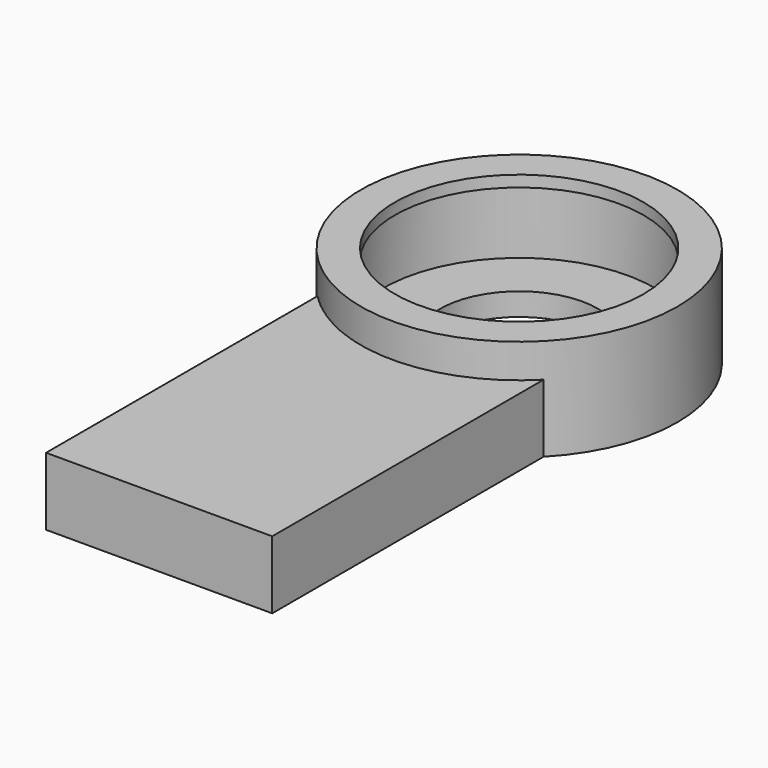
from build123d import *

# Parameters (mm, degrees)
SKETCH_R      = 70
SKETCH_R_2    = 35
PAD_DEPTH     = 10
SKETCH001_R   = 70
SKETCH001_R_2 = 60
PAD001_DEPTH  = 30
SKETCH002_R   = 70
SKETCH002_R_2 = 55
PAD002_DEPTH  = 5
PAD003_DEPTH  = 30


with BuildPart() as block:
    # Sketch → Pad (new body)
    with BuildSketch(Plane.XY):
        Circle(SKETCH_R)
        Circle(SKETCH_R_2, mode=Mode.SUBTRACT)
    extrude(amount=PAD_DEPTH)

    # Sketch001 → Pad001 (new body)
    with BuildSketch(Plane.XY.offset(10)):
        Circle(SKETCH001_R)
        Circle(SKETCH001_R_2, mode=Mode.SUBTRACT)
    extrude(amount=PAD001_DEPTH)

    # Sketch002 → Pad002 (new body)
    with BuildSketch(Plane.XY.offset(40)):
        Circle(SKETCH002_R)
        Circle(SKETCH002_R_2, mode=Mode.SUBTRACT)
    extrude(amount=PAD002_DEPTH)


with BuildPart() as obj1:
    # Sketch003 → Pad003 (new body)
    with BuildSketch(Plane.XY):
        with BuildLine():
            ThreePointArc((-50, -48.989795), (0, -70), (50, -48.989795))
            Line((50, -198.989795), (50, -48.989795))
            Line((-50, -198.989795), (50, -198.989795))
            Line((-50, -48.989795), (-50, -198.989795))
        make_face()
    extrude(amount=PAD003_DEPTH)


solid = Compound([block.part, obj1.part])
